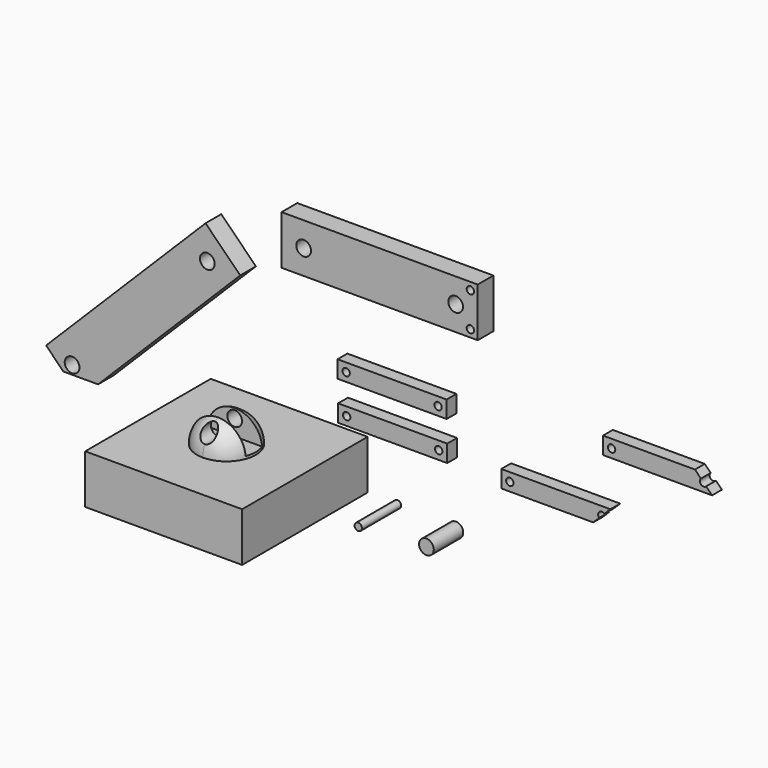
from build123d import *

# Parameters (mm, degrees)
F0_W      = 320
F0_H      = 100
F1_DEPTH  = 160
F0_W_2    = 400
F0_R      = 15
F2_DEPTH  = 20
F4_ANGLE  = 180
F5_W      = 42
F5_H      = 72.515162
F6_DEPTH  = 100
F7_R      = 15
F8_DEPTH  = 100.001
F9_R      = 15
F10_DEPTH = 388.23848
F11_R     = 15
F12_DEPTH = 538.03559
F14_R     = 7.5
F15_DEPTH = 180.001
F13_W     = 222.5
F13_H     = 35
F13_R     = 7.5
F16_DEPTH = 25
F17_R     = 15
F18_DEPTH = 37.5
F19_R     = 7.5
F20_DEPTH = 50


with BuildPart() as f1:
    # F0 (on Front) → F1 (new body, symmetric)
    with BuildSketch(Plane.XZ):
        Rectangle(F0_W, F0_H)
    extrude(amount=F1_DEPTH, both=True)

    # F0 (on Front) → F2 (join, symmetric)
    with BuildSketch(Plane.XZ):
        Rectangle(F0_W, F0_H)
        with Locations((328.46604, 466.31974)):
            Rectangle(F0_W_2, F0_H)
        with Locations((173.46604, 466.31974)):
            Circle(F0_R, mode=Mode.SUBTRACT)
        with Locations((483.46604, 466.31974)):
            Circle(F0_R, mode=Mode.SUBTRACT)
        Polygon((-26.552271, 445.979797), (-351.821391, 120.710678), (-316.466052, 85.355339), (-245.755374, 85.355339), (44.158407, 375.269119), align=None)
        with Locations((-298.788382, 103.033009)):
            Circle(F0_R, mode=Mode.SUBTRACT)
        with Locations((-23.016737, 378.804653)):
            Circle(F0_R, mode=Mode.SUBTRACT)
    extrude(amount=F2_DEPTH, both=True)

    # F7 (on face) → F8 (cut, through all)
    with BuildSketch(Plane.XY.offset(50)):
        Circle(F7_R)
    extrude(amount=-F8_DEPTH, mode=Mode.SUBTRACT)

    # F14 (on face) → F15 (cut, through all)
    with BuildSketch(Plane.XZ.offset(20)):
        with Locations((513.46604, 501.31974)):
            Circle(F14_R)
        with Locations((513.46604, 431.31974)):
            Circle(F14_R)
    extrude(amount=-F15_DEPTH, mode=Mode.SUBTRACT)


with BuildPart() as f4:
    # F3 (on Right) → F4 (revolve, symmetric)
    with BuildSketch(Plane.YZ) as f4_sk:
        with BuildLine():
            Line((21.001521, 50.769714), (60, 50.851467))
            ThreePointArc((60, 50.851467), (-0.124267, 110.004388), (-60, 50.59991))
            Line((-60, 50.59991), (21.001521, 50.769714))
        make_face()
    revolve(axis=Axis((0, 3.170609, 50), (0, -1, 0)), revolution_arc=F4_ANGLE / 2)
    revolve(f4_sk.sketch, axis=Axis((0, 3.170609, 50), (0, 1, 0)), revolution_arc=F4_ANGLE / 2)

    # F5 (on Right) → F6 (cut, symmetric)
    with BuildSketch(Plane.YZ):
        with Locations((0, 91.257581)):
            Rectangle(F5_W, F5_H)
    extrude(amount=F6_DEPTH, both=True, mode=Mode.SUBTRACT)

    # F9 (on face) → F10 (cut)
    with BuildSketch(Plane.XY.offset(55)):
        Circle(F9_R)
    extrude(amount=-F10_DEPTH, mode=Mode.SUBTRACT)

    # F11 (on face) → F12 (cut, symmetric)
    with BuildSketch(Plane.XZ.offset(-21)):
        with Locations((0, 87.459301)):
            Circle(F11_R)
    extrude(amount=F12_DEPTH, both=True, mode=Mode.SUBTRACT)


with BuildPart() as f16:
    # F13 (on Front) → F16 (new body)
    with BuildSketch(Plane.XZ):
        with Locations((357.870736, 275.133513)):
            Rectangle(F13_W, F13_H)
        with Locations((264.120736, 275.133513)):
            Circle(F13_R, mode=Mode.SUBTRACT)
        with Locations((451.620736, 275.133513)):
            Circle(F13_R, mode=Mode.SUBTRACT)
        with Locations((359.030631, 196.383543)):
            Rectangle(F13_W, F13_H)
        with Locations((265.280631, 196.383543)):
            Circle(F13_R, mode=Mode.SUBTRACT)
        with Locations((452.780631, 196.383543)):
            Circle(F13_R, mode=Mode.SUBTRACT)
        with BuildLine():
            Line((580.474521, 204.231913), (580.474521, 169.231913))
            Line((580.474521, 169.231913), (767.974521, 169.231913))
            Line((767.974521, 169.231913), (780.17122, 181.428612))
            ThreePointArc((780.17122, 181.428612), (780.17122, 192.035214), (790.777822, 192.035214))
            Line((790.777822, 192.035214), (802.974521, 204.231913))
            Line((802.974521, 204.231913), (580.474521, 204.231913))
        make_face()
        with Locations((597.974521, 186.731913)):
            Circle(F13_R, mode=Mode.SUBTRACT)
        with BuildLine():
            Line((787.991583, 331.633254), (787.991583, 296.633254))
            Line((787.991583, 296.633254), (1010.491583, 296.633254))
            Line((1010.491583, 296.633254), (998.294884, 308.829954))
            ThreePointArc((998.294884, 308.829954), (987.688282, 308.829954), (987.688282, 319.436555))
            Line((987.688282, 319.436555), (975.491583, 331.633254))
            Line((975.491583, 331.633254), (787.991583, 331.633254))
        make_face()
        with Locations((805.491583, 314.133254)):
            Circle(F13_R, mode=Mode.SUBTRACT)
    extrude(amount=F16_DEPTH)


with BuildPart() as f18:
    # F17 (on Front) → F18 (new body, symmetric)
    with BuildSketch(Plane.XZ):
        with Locations((437.8663, 22.969805)):
            Circle(F17_R)
    extrude(amount=F18_DEPTH, both=True)


with BuildPart() as f20:
    # F19 (on Front) → F20 (new body, symmetric)
    with BuildSketch(Plane.XZ):
        with Locations((308.816671, 22.070656)):
            Circle(F19_R)
    extrude(amount=F20_DEPTH, both=True)


solid = Compound([f1.part, f4.part, f16.part, f18.part, f20.part])
